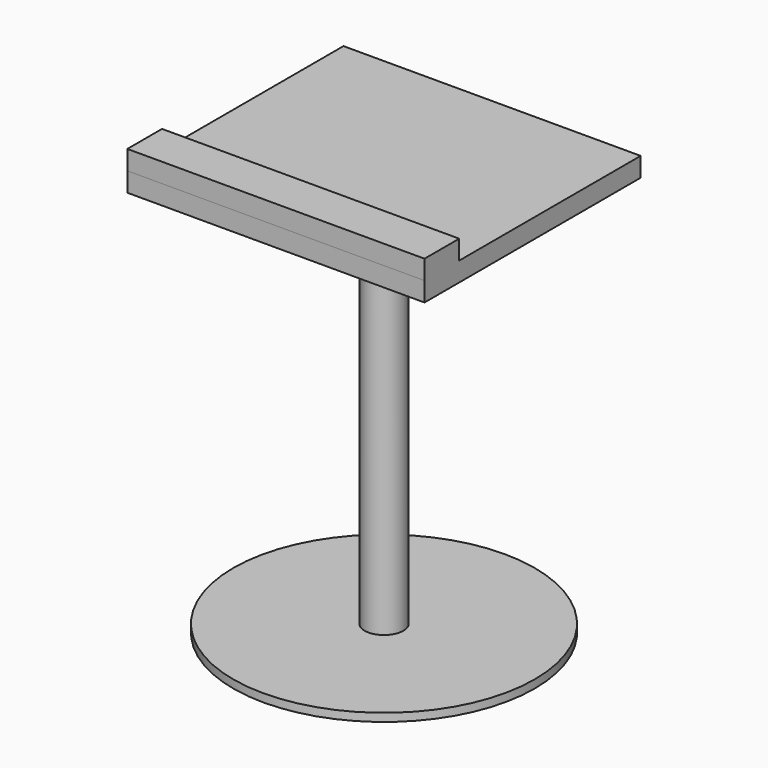
from build123d import *

# Parameters (mm, degrees)
F0_W     = 195.58
F0_H     = 177.8
F1_DEPTH = 12.7
F2_R     = 12.7
F3_DEPTH = 254
F4_R     = 99.216789
F5_DEPTH = 5.334
F6_W     = 195.58
F6_H     = 28.538063
F7_DEPTH = 12.7


with BuildPart() as f1:
    # F0 (on Top) → F1 (new body)
    with BuildSketch(Plane.XY):
        Rectangle(F0_W, F0_H)
    extrude(amount=F1_DEPTH)

    # F2 (on face) → F3 (join)
    with BuildSketch(Plane(origin=(0, 0, 0), x_dir=(1, 0, 0), z_dir=(0, 0, -1))):
        Circle(F2_R)
    extrude(amount=F3_DEPTH)

    # F4 (on face) → F5 (join)
    with BuildSketch(Plane(origin=(0, 0, -254), x_dir=(1, 0, 0), z_dir=(0, 0, -1))):
        Circle(F4_R)
    extrude(amount=F5_DEPTH)

    # F6 (on face) → F7 (join)
    with BuildSketch(Plane.XY.offset(12.7)):
        with Locations((0, -74.630968)):
            Rectangle(F6_W, F6_H)
    extrude(amount=F7_DEPTH)


solid = f1.part
